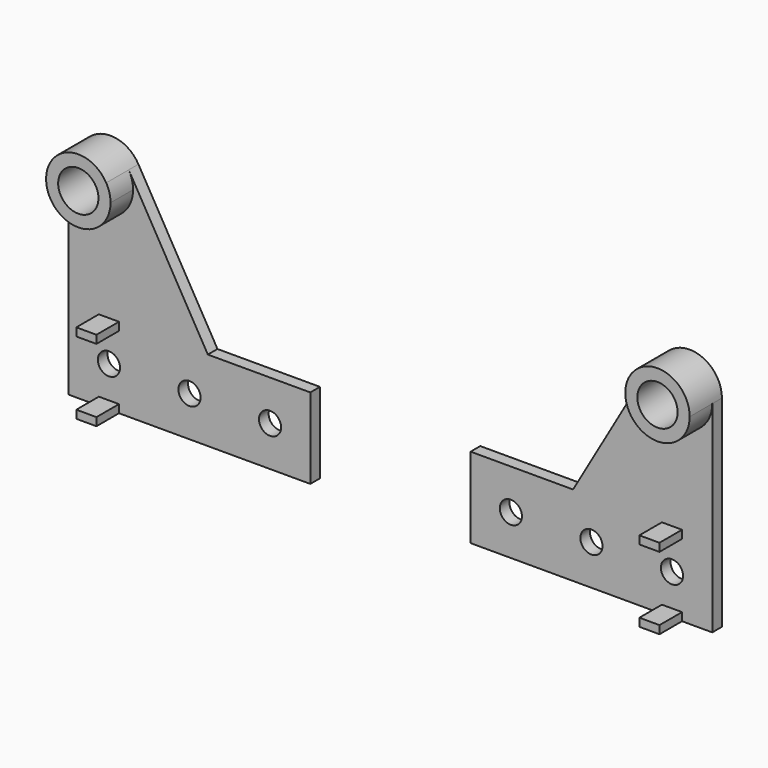
from build123d import *

# Parameters (mm, degrees)
F1_DEPTH = 3
F0_W     = 5
F0_H     = 2
F0_R     = 5
F2_DEPTH = 10
F3_D     = 5.5


with BuildPart() as f1:
    # F0 (on Front) → F1 (new body)
    with BuildSketch(Plane.XZ):
        Polygon((-22.5, 10), (-30, 10), (-30, -10), (-22.5, -10), (-22.5, -8), (-17.5, -8), (-17.5, -10), (30, -10), (30, 10), (4.5581123827, 10), (-17.5, 10), (-17.5, 8), (-22.5, 8), align=None)
        with BuildLine():
            Line((-30, 40), (-30, 10))
            Line((-30, 10), (-22.5, 10))
            Line((-22.5, 10), (-17.5, 10))
            Line((-17.5, 10), (4.5581123827, 10))
            Line((4.5581123827, 10), (-15.0717967697, 44))
            ThreePointArc((-15.0717967697, 44), (-14.2725933897, 42.0705523608), (-14, 40))
            ThreePointArc((-14, 40), (-22, 32), (-30, 40))
        make_face()
    extrude(amount=F1_DEPTH)

    # F0 (on Front) → F2 (join)
    with BuildSketch(Plane.XZ):
        with Locations((-20, 9)):
            Rectangle(F0_W, F0_H)
        with Locations((-20, -9)):
            Rectangle(F0_W, F0_H)
        with BuildLine():
            ThreePointArc((-15.0717967697, 44), (-24.0705523608, 47.7274066103), (-30, 40))
            ThreePointArc((-30, 40), (-22, 32), (-14, 40))
            ThreePointArc((-14, 40), (-14.2725933897, 42.0705523608), (-15.0717967697, 44))
        make_face()
        with Locations((-22, 40)):
            Circle(F0_R, mode=Mode.SUBTRACT)
    extrude(amount=F2_DEPTH)

    # F3 (through all)
    with Locations(Plane(origin=(0, 0, 0), x_dir=(1, 0, 0), z_dir=(0, 1, 0))):
        with Locations((-20, 0), (20, 0), (0, 0)):
            Hole(F3_D / 2)


with BuildPart() as f5_1:
    # F5: instance of F1
    add(f1.part.mirror(Plane.YZ.offset(49.9)))


solid = Compound([f1.part, f5_1.part])
